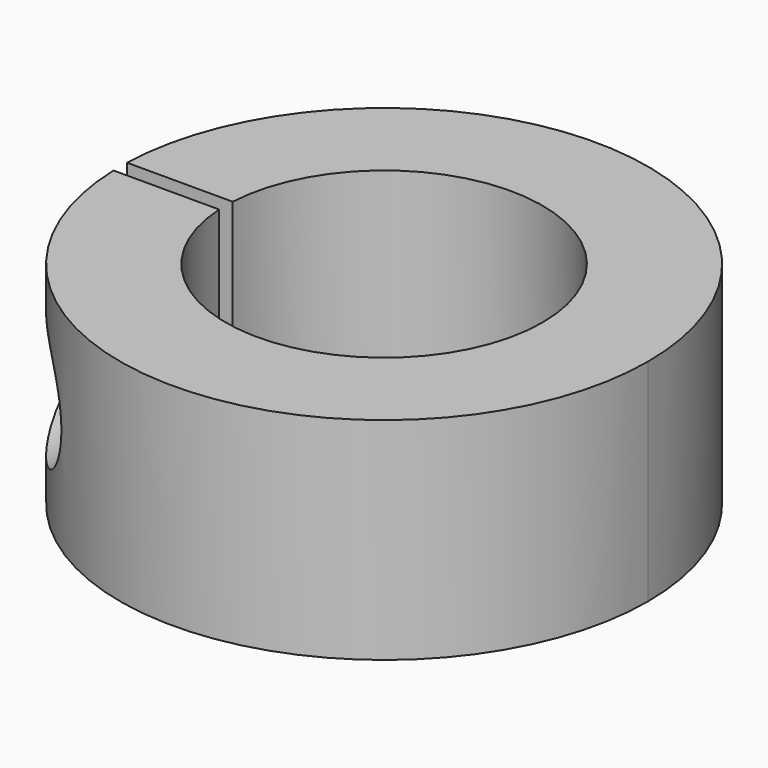
from build123d import *

# Parameters (mm, degrees)
F0_R     = 7.9375
F0_R_2   = 4.7625
F1_DEPTH = 6.35
F3_R     = 1.905
F4_DEPTH = 25.4
F5_W     = 3.218135
F5_H     = 6.369046
F6_DEPTH = 0.254
F7_R     = 1.0287
F8_DEPTH = 25.4
F7_R_2   = 1.4732
F9_DEPTH = 1.778


with BuildPart() as f1:
    # F0 (on Top) → F1 (new body)
    with BuildSketch(Plane.XY):
        Circle(F0_R)
        Circle(F0_R_2, mode=Mode.SUBTRACT)
    extrude(amount=F1_DEPTH)

    # F3 (on offset) → F4 (cut)
    with BuildSketch(Plane.XZ.offset(1.905)):
        with Locations((-6.35, 3.175)):
            Circle(F3_R)
    extrude(amount=F4_DEPTH, mode=Mode.SUBTRACT)

    # F5 (on Front) → F6 (cut, symmetric)
    with BuildSketch(Plane.XZ):
        with Locations((-6.336745, 3.184523)):
            Rectangle(F5_W, F5_H)
    extrude(amount=F6_DEPTH, both=True, mode=Mode.SUBTRACT)

    # F7 (on face) → F8 (cut)
    with BuildSketch(Plane.XZ.offset(1.905)):
        with Locations((-6.35, 3.175)):
            Circle(F7_R)
    extrude(amount=-F8_DEPTH, mode=Mode.SUBTRACT)

    # F7 (on face) → F9 (cut)
    with BuildSketch(Plane.XZ.offset(1.905)):
        with Locations((-6.35, 3.175)):
            Circle(F7_R_2)
        with Locations((-6.35, 3.175)):
            Circle(F7_R, mode=Mode.SUBTRACT)
    extrude(amount=-F9_DEPTH, mode=Mode.SUBTRACT)


solid = f1.part
